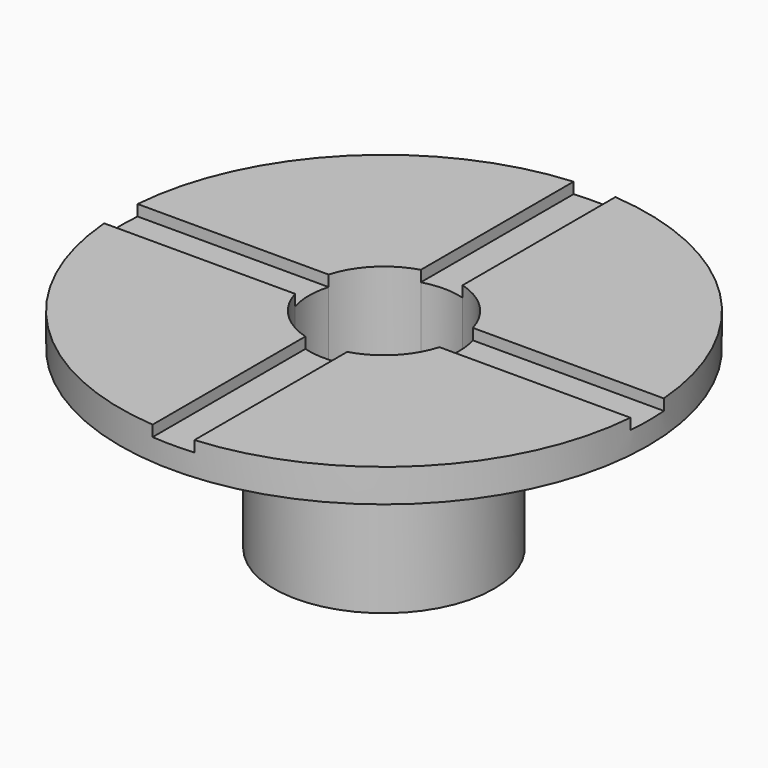
from build123d import *

# Parameters (mm, degrees)
F0_R     = 12
F1_DEPTH = 1.5
F2_R     = 5
F3_DEPTH = 8
F5_DEPTH = 0.5
F6_DEPTH = 7
F7_R     = 2
F8_DEPTH = 3


with BuildPart() as f1:
    # F0 (on Top) → F1 (new body)
    with BuildSketch(Plane.XY):
        Circle(F0_R)
    extrude(amount=F1_DEPTH)

    # F2 (on face) → F3 (join)
    with BuildSketch(Plane(origin=(0, 0, 0), x_dir=(1, 0, 0), z_dir=(0, 0, -1))):
        Circle(F2_R)
        Circle(F2_R)
    extrude(amount=F3_DEPTH)

    # F4 (on face) → F5 (cut)
    with BuildSketch(Plane.XY.offset(1.5)):
        with BuildLine():
            ThreePointArc((-0.95, 3.2802019755), (0, 3.415), (0.95, 3.2802019755))
            Line((0.95, 3.2802019755), (0.95, 11.9623367282))
            ThreePointArc((0.95, 11.9623367282), (0, 12), (-0.95, 11.9623367282))
            Line((-0.95, 11.9623367282), (-0.95, 3.2802019755))
        make_face()
        with BuildLine():
            ThreePointArc((-3.2802019755, -0.95), (-3.415, 0), (-3.2802019755, 0.95))
            Line((-3.2802019755, 0.95), (-11.9623367282, 0.95))
            ThreePointArc((-11.9623367282, 0.95), (-12, 0), (-11.9623367282, -0.95))
            Line((-11.9623367282, -0.95), (-3.2802019755, -0.95))
        make_face()
        with BuildLine():
            Line((0.95, -11.9623367282), (0.95, -3.2802019755))
            ThreePointArc((0.95, -3.2802019755), (0, -3.415), (-0.95, -3.2802019755))
            Line((-0.95, -3.2802019755), (-0.95, -11.9623367282))
            ThreePointArc((-0.95, -11.9623367282), (0, -12), (0.95, -11.9623367282))
        make_face()
        with BuildLine():
            ThreePointArc((3.2802019755, 0.95), (3.3811325578, 0.4797578836), (3.415, 0))
            ThreePointArc((3.415, 0), (3.3811325578, -0.4797578836), (3.2802019755, -0.95))
            Line((3.2802019755, -0.95), (11.9623367282, -0.95))
            ThreePointArc((11.9623367282, -0.95), (11.9905804851, -0.4753731487), (12, 0))
            ThreePointArc((12, 0), (11.9905804851, 0.4753731487), (11.9623367282, 0.95))
            Line((11.9623367282, 0.95), (3.2802019755, 0.95))
        make_face()
    extrude(amount=-F5_DEPTH, mode=Mode.SUBTRACT)

    # F4 (on face) → F6 (cut)
    with BuildSketch(Plane.XY.offset(1.5)):
        with BuildLine():
            ThreePointArc((3.2802019755, -0.95), (3.3811325578, -0.4797578836), (3.415, 0))
            ThreePointArc((3.415, 0), (3.3811325578, 0.4797578836), (3.2802019755, 0.95))
            ThreePointArc((3.2802019755, 0.95), (2.4147696578, 2.4147696578), (0.95, 3.2802019755))
            ThreePointArc((0.95, 3.2802019755), (0, 3.415), (-0.95, 3.2802019755))
            ThreePointArc((-0.95, 3.2802019755), (-2.4147696578, 2.4147696578), (-3.2802019755, 0.95))
            ThreePointArc((-3.2802019755, 0.95), (-3.415, 0), (-3.2802019755, -0.95))
            ThreePointArc((-3.2802019755, -0.95), (-2.4147696578, -2.4147696578), (-0.95, -3.2802019755))
            ThreePointArc((-0.95, -3.2802019755), (0, -3.415), (0.95, -3.2802019755))
            ThreePointArc((0.95, -3.2802019755), (2.4147696578, -2.4147696578), (3.2802019755, -0.95))
        make_face()
    extrude(amount=-F6_DEPTH, mode=Mode.SUBTRACT)

    # F7 (on face) → F8 (join)
    with BuildSketch(Plane.XY.offset(-5.5)):
        Circle(F7_R)
    extrude(amount=F8_DEPTH)


solid = f1.part
